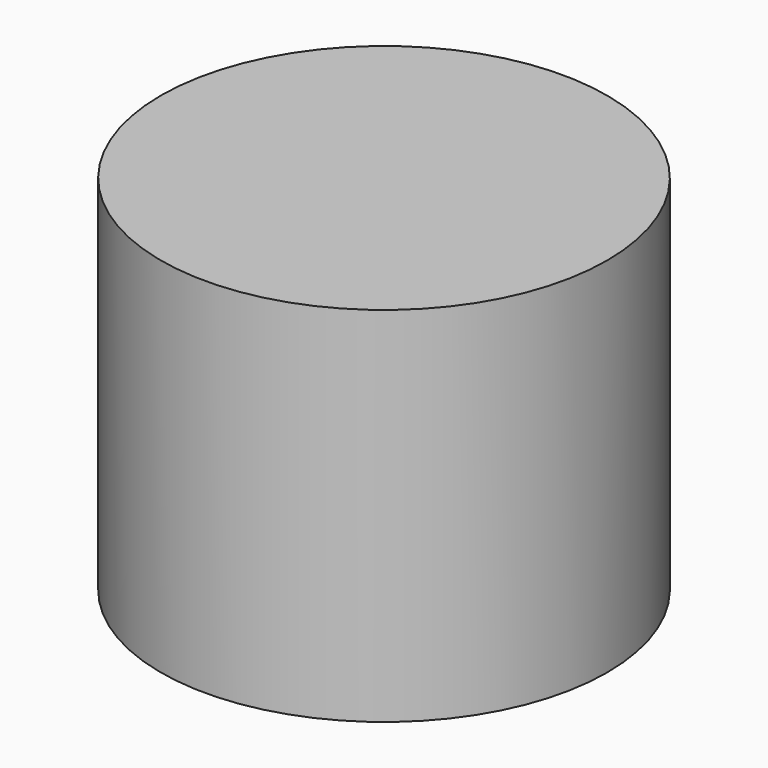
from build123d import *

# Parameters (mm, degrees)
F0_R     = 2.033883
F0_R_2   = 1.622175
F1_DEPTH = 1.27
F2_R     = 2.938389
F3_DEPTH = 4.7752


with BuildPart() as f1:
    # F0 (on Top) → F1 (new body)
    with BuildSketch(Plane.XY):
        Circle(F0_R)
        Circle(F0_R_2, mode=Mode.SUBTRACT)
    extrude(amount=-F1_DEPTH)

    # F2 (on face) → F3 (join)
    with BuildSketch(Plane.XY):
        Circle(F2_R)
    extrude(amount=-F3_DEPTH)


solid = f1.part
